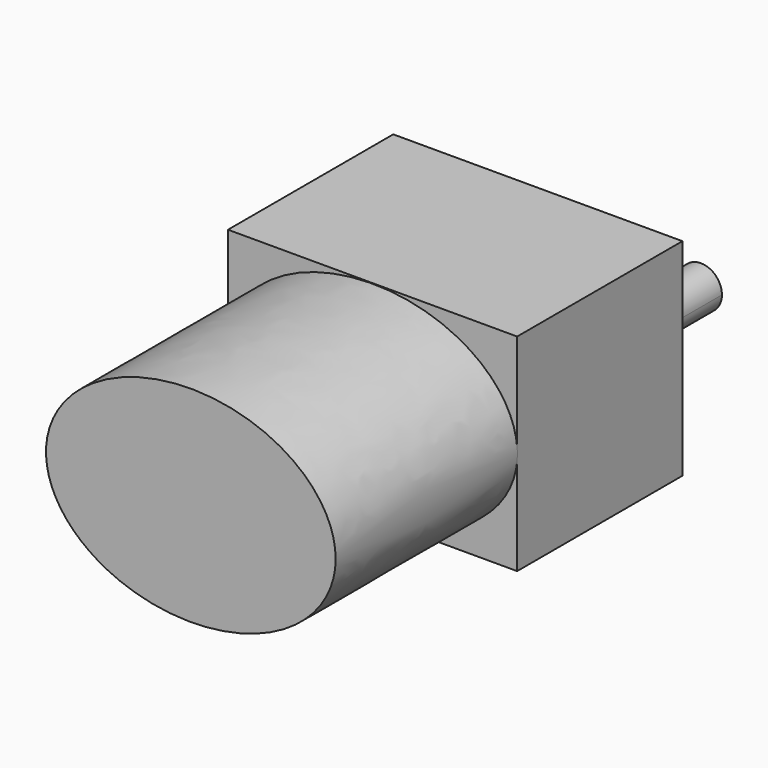
from build123d import *

# Parameters (mm, degrees)
F0_W     = 70
F0_H     = 50
F1_DEPTH = 50
F3_DEPTH = 55
F5_DEPTH = 25


with BuildPart() as f1:
    # F0 (on Top) → F1 (new body)
    with BuildSketch(Plane.XY):
        with Locations((35, -6.004873)):
            Rectangle(F0_W, F0_H)
    extrude(amount=F1_DEPTH)

    # F2 (on face) → F3 (join)
    with BuildSketch(Plane.XZ.offset(31.004873)):
        with BuildLine():
            add(Edge.make_bspline(
                [(35, 0.122521), (70.053019, 0.122521), (70.053019, 25)],
                knots=[4.712389, 4.712389, 4.712389, 6.283185, 6.283185, 6.283185], degree=2, weights=[1, 0.707107, 1]))
            add(Edge.make_bspline(
                [(70.053019, 25), (70.053019, 85.059548), (10.213773, 42.591034), (-49.625473, 0.122521), (35, 0.122521)],
                knots=[0, 0, 0, 2.356194, 2.356194, 4.712389, 4.712389, 4.712389], degree=2, weights=[1, 0.382683, 1, 0.382683, 1]))
        make_face()
    extrude(amount=F3_DEPTH)

    # F4 (on face) → F5 (join)
    with BuildSketch(Plane(origin=(0, 18.995127, 0), x_dir=(-1, 0, 0), z_dir=(0, 1, 0))):
        with BuildLine():
            ThreePointArc((-49.382868, 25), (-54.47498, 30.092111), (-59.567091, 25))
            Line((-59.567091, 25), (-49.382868, 25))
        make_face()
        with BuildLine():
            ThreePointArc((-11.232963, 25), (-16.029716, 29.796753), (-20.826468, 25))
            Line((-20.826468, 25), (-11.232963, 25))
        make_face()
        with BuildLine():
            Line((-11.232963, 25), (-20.826468, 25))
            ThreePointArc((-20.826468, 25), (-16.029716, 20.203247), (-11.232963, 25))
        make_face()
        with BuildLine():
            Line((-49.382868, 25), (-59.567091, 25))
            ThreePointArc((-59.567091, 25), (-54.47498, 19.907889), (-49.382868, 25))
        make_face()
    extrude(amount=F5_DEPTH)


solid = f1.part
